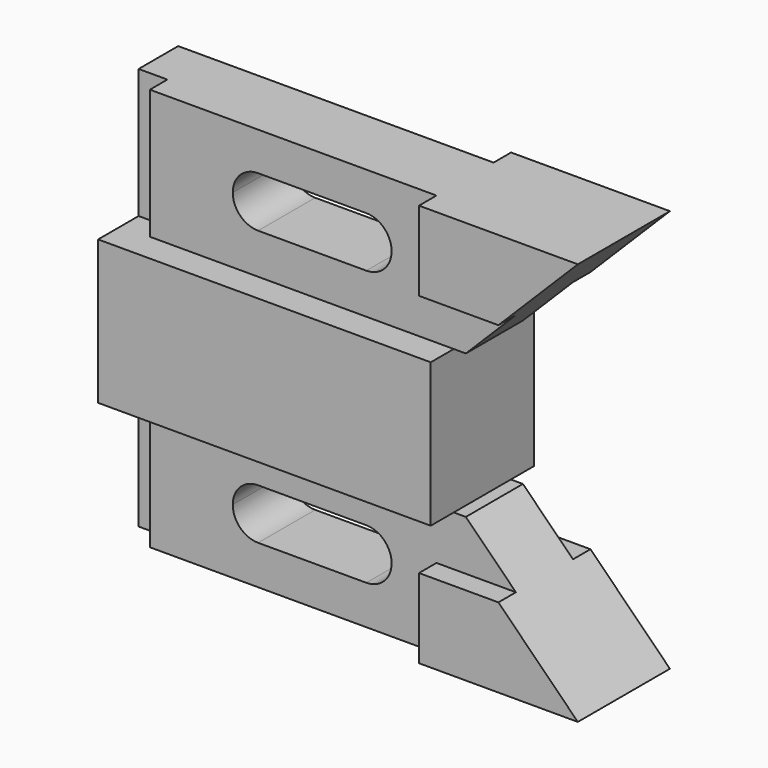
from build123d import *

# Parameters (mm, degrees)
F1_DEPTH  = 104.648
F2_W      = 69.596
F2_H      = 4.826
F3_DEPTH  = 28.575
F2_W_2    = 31.242
F2_H_2    = 1.524
F4_DEPTH  = 88.9
F6_DEPTH  = 28.575
F8_DEPTH  = 26.925
F9_DEPTH  = 4.826
F11_DEPTH = 4.826
F13_DEPTH = 26.925


with BuildPart() as f1:
    # F0 (on Right) → F1 (new body)
    with BuildSketch(Plane.YZ):
        Polygon((0, 28.575), (0, 0), (25.4, 0), (25.4, 28.575), (26.924, 28.575), (26.924, 60.325), (25.4, 60.325), (25.4, 88.9), (0, 88.9), (0, 60.325), (-1.524, 60.325), (-1.524, 28.575), align=None)
    extrude(amount=F1_DEPTH)

    # F2 (on face) → F3 (cut)
    with BuildSketch(Plane.XY.offset(88.9)):
        with Locations((34.798, 22.987)):
            Rectangle(F2_W, F2_H)
        Polygon((0, 4.826), (0, 0), (69.596, 0), (69.596, 4.826), (6.35, 4.826), (6.35, 9.652), (0, 9.652), align=None)
    extrude(amount=-F3_DEPTH, mode=Mode.SUBTRACT)

    # F2 (on face) → F4 (cut)
    with BuildSketch(Plane.XY.offset(88.9)):
        with Locations((89.027, 26.162)):
            Rectangle(F2_W_2, F2_H_2)
        with Locations((89.027, -0.762)):
            Rectangle(F2_W_2, F2_H_2)
    extrude(amount=-F4_DEPTH, mode=Mode.SUBTRACT)

    # F5 (on face) → F6 (cut)
    with BuildSketch(Plane(origin=(0, 0, 0), x_dir=(1, 0, 0), z_dir=(0, 0, -1))):
        Polygon((6.35, -9.652), (6.35, -4.826), (69.596, -4.826), (69.596, 0), (73.406, 0), (73.406, 1.524), (0, 1.524), (0, -9.652), align=None)
        Polygon((69.596, -20.574), (0, -20.574), (0, -26.924), (73.406, -26.924), (73.406, -25.4), (69.596, -25.4), align=None)
    extrude(amount=-F6_DEPTH, mode=Mode.SUBTRACT)

    # F7 (on face) → F8 (cut, through all)
    with BuildSketch(Plane.XZ):
        Polygon((104.648, 44.45), (104.648, 88.9), (87.122, 71.374), (76.073, 60.325), (73.406, 60.325), (73.406, 44.45), align=None)
        Polygon((104.648, 0), (104.648, 44.45), (73.406, 44.45), (73.406, 28.575), (76.073, 28.575), (87.122, 17.526), align=None)
    extrude(amount=-F8_DEPTH, mode=Mode.SUBTRACT)

    # F7 (on face) → F9 (cut)
    with BuildSketch(Plane.XZ):
        Polygon((76.073, 60.325), (87.122, 71.374), (69.596, 71.374), (69.596, 60.325), (73.406, 60.325), align=None)
        Polygon((69.596, 17.526), (87.122, 17.526), (76.073, 28.575), (73.406, 28.575), (69.596, 28.575), align=None)
    extrude(amount=-F9_DEPTH, mode=Mode.SUBTRACT)

    # F10 (on face) → F11 (cut)
    with BuildSketch(Plane(origin=(0, 25.4, 0), x_dir=(-1, 0, 0), z_dir=(0, 1, 0))):
        Polygon((-69.596, 60.325), (-69.596, 71.374), (-87.122, 71.374), (-76.073, 60.325), (-73.406, 60.325), align=None)
        Polygon((-69.596, 17.526), (-69.596, 28.575), (-73.406, 28.575), (-76.073, 28.575), (-87.122, 17.526), align=None)
    extrude(amount=-F11_DEPTH, mode=Mode.SUBTRACT)

    # F12 (on face) → F13 (cut, through all)
    with BuildSketch(Plane.XZ):
        with BuildLine():
            ThreePointArc((30.226, 19.812), (26.2746873067, 18.1753126933), (24.638, 14.224))
            Line((24.638, 14.224), (30.226, 14.224))
            Line((30.226, 14.224), (35.814, 14.224))
            ThreePointArc((35.814, 14.224), (34.1773126933, 18.1753126933), (30.226, 19.812))
        make_face()
        with BuildLine():
            Line((30.226, 14.224), (24.638, 14.224))
            ThreePointArc((24.638, 14.224), (26.2746873067, 10.2726873067), (30.226, 8.636))
            ThreePointArc((30.226, 8.636), (34.1773126933, 10.2726873067), (35.814, 14.224))
            Line((35.814, 14.224), (30.226, 14.224))
        make_face()
        with BuildLine():
            Line((54.102, 19.812), (30.226, 19.812))
            ThreePointArc((30.226, 19.812), (34.1773126933, 18.1753126933), (35.814, 14.224))
            Line((35.814, 14.224), (48.514, 14.224))
            ThreePointArc((48.514, 14.224), (50.1506873067, 18.1753126933), (54.102, 19.812))
        make_face()
        with BuildLine():
            ThreePointArc((35.814, 14.224), (34.1773126933, 10.2726873067), (30.226, 8.636))
            Line((30.226, 8.636), (54.102, 8.636))
            ThreePointArc((54.102, 8.636), (50.1506873067, 10.2726873067), (48.514, 14.224))
            Line((48.514, 14.224), (35.814, 14.224))
        make_face()
        with BuildLine():
            ThreePointArc((59.69, 14.224), (58.0533126933, 18.1753126933), (54.102, 19.812))
            ThreePointArc((54.102, 19.812), (50.1506873067, 18.1753126933), (48.514, 14.224))
            Line((48.514, 14.224), (59.69, 14.224))
        make_face()
        with BuildLine():
            ThreePointArc((48.514, 14.224), (50.1506873067, 10.2726873067), (54.102, 8.636))
            ThreePointArc((54.102, 8.636), (58.0533126933, 10.2726873067), (59.69, 14.224))
            Line((59.69, 14.224), (48.514, 14.224))
        make_face()
        with BuildLine():
            Line((48.514, 74.856311358), (59.69, 74.856311358))
            ThreePointArc((59.69, 74.856311358), (58.0533126933, 78.8076240512), (54.102, 80.444311358))
            ThreePointArc((54.102, 80.444311358), (50.1506873067, 78.8076240512), (48.514, 74.856311358))
        make_face()
        with BuildLine():
            ThreePointArc((54.102, 69.268311358), (58.0533126933, 70.9049986647), (59.69, 74.856311358))
            Line((59.69, 74.856311358), (48.514, 74.856311358))
            ThreePointArc((48.514, 74.856311358), (50.1506873067, 70.9049986647), (54.102, 69.268311358))
        make_face()
        with BuildLine():
            ThreePointArc((48.514, 74.856311358), (50.1506873067, 78.8076240512), (54.102, 80.444311358))
            Line((54.102, 80.444311358), (30.226, 80.444311358))
            ThreePointArc((30.226, 80.444311358), (34.1773126933, 78.8076240512), (35.814, 74.856311358))
            Line((35.814, 74.856311358), (48.514, 74.856311358))
        make_face()
        with BuildLine():
            Line((30.226, 69.268311358), (54.102, 69.268311358))
            ThreePointArc((54.102, 69.268311358), (50.1506873067, 70.9049986647), (48.514, 74.856311358))
            Line((48.514, 74.856311358), (35.814, 74.856311358))
            ThreePointArc((35.814, 74.856311358), (34.1773126933, 70.9049986647), (30.226, 69.268311358))
        make_face()
        with BuildLine():
            ThreePointArc((35.814, 74.856311358), (34.1773126933, 78.8076240512), (30.226, 80.444311358))
            ThreePointArc((30.226, 80.444311358), (26.2746873067, 78.8076240512), (24.638, 74.856311358))
            Line((24.638, 74.856311358), (35.814, 74.856311358))
        make_face()
        with BuildLine():
            ThreePointArc((24.638, 74.856311358), (26.2746873067, 70.9049986647), (30.226, 69.268311358))
            ThreePointArc((30.226, 69.268311358), (34.1773126933, 70.9049986647), (35.814, 74.856311358))
            Line((35.814, 74.856311358), (24.638, 74.856311358))
        make_face()
    extrude(amount=-F13_DEPTH, mode=Mode.SUBTRACT)


solid = f1.part
